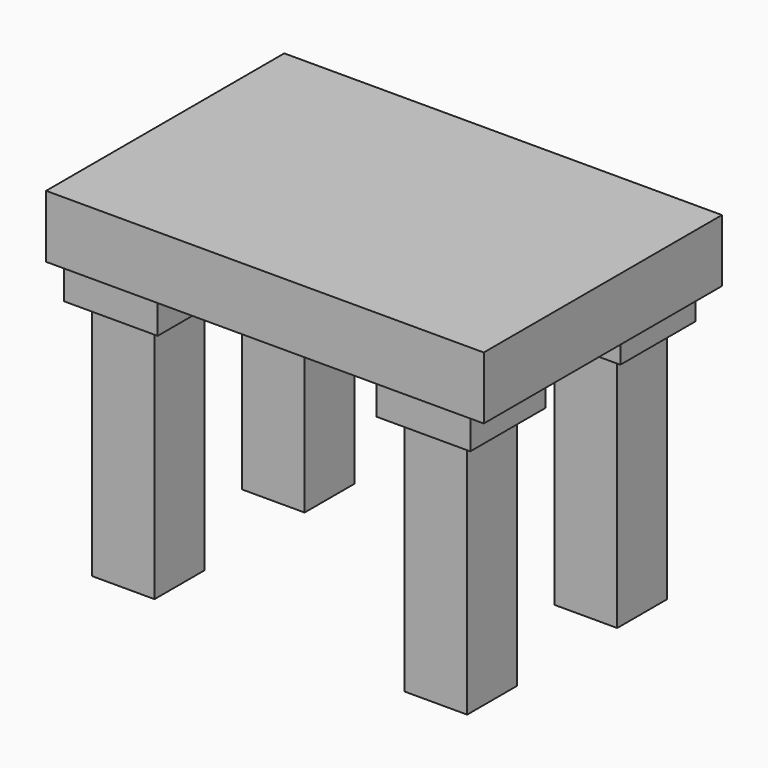
from build123d import *

# Parameters (mm, degrees)
F0_W     = 12.7
F0_H     = 12.7
F1_DEPTH = 111.506
F2_W     = 177.8
F2_H     = 120.9314045732
F3_DEPTH = 25.4
F4_DEPTH = 12.7


with BuildPart() as f1:
    # F0 (on Top) → F1 (new body)
    with BuildSketch(Plane.XY):
        Polygon((76.6849960148, 50.960245767), (76.6849960148, 38.260245767), (89.3849960148, 38.260245767), (89.3849960148, 25.560245767), (102.0849960148, 25.560245767), (102.0849960148, 50.960245767), align=None)
        with Locations((83.0349960148, 31.910245767)):
            Rectangle(F0_W, F0_H)
    extrude(amount=-F1_DEPTH)


with BuildPart() as f1b:
    # F0 (on Top) → F1, piece 2 (new body)
    with BuildSketch(Plane.XY):
        Polygon((-37.6150039852, -37.939754233), (-37.6150039852, -25.239754233), (-50.3150039852, -25.239754233), (-50.3150039852, -50.639754233), (-24.9150039852, -50.639754233), (-24.9150039852, -37.939754233), align=None)
        with Locations((-31.2650039852, -31.589754233)):
            Rectangle(F0_W, F0_H)
    extrude(amount=-F1_DEPTH)


with BuildPart() as f1c:
    # F0 (on Top) → F1, piece 3 (new body)
    with BuildSketch(Plane.XY):
        Polygon((102.0849960148, -25.239754233), (89.3849960148, -25.239754233), (89.3849960148, -37.939754233), (76.6849960148, -37.939754233), (76.6849960148, -50.639754233), (102.0849960148, -50.639754233), align=None)
        with Locations((83.0349960148, -31.589754233)):
            Rectangle(F0_W, F0_H)
    extrude(amount=-F1_DEPTH)


with BuildPart() as f1d:
    # F0 (on Top) → F1, piece 4 (new body)
    with BuildSketch(Plane.XY):
        with Locations((-31.2650039852, 31.910245767)):
            Rectangle(F0_W, F0_H)
        Polygon((-24.9150039852, 38.260245767), (-24.9150039852, 50.960245767), (-50.3150039852, 50.960245767), (-50.3150039852, 25.560245767), (-37.6150039852, 25.560245767), (-37.6150039852, 38.260245767), align=None)
    extrude(amount=-F1_DEPTH)


with BuildPart() as f3:
    # F2 (on Top) → F3 (new body)
    with BuildSketch(Plane.XY):
        with Locations((26.1539444327, 2.0456369966)):
            Rectangle(F2_W, F2_H)
    extrude(amount=F3_DEPTH)


with BuildPart() as f4:
    # F0 (on Top) → F4 (new body)
    with BuildSketch(Plane.XY):
        Polygon((-37.6150039852, -25.239754233), (-37.6150039852, -18.889754233), (-56.6650039852, -18.889754233), (-56.6650039852, -56.989754233), (-18.5650039852, -56.989754233), (-18.5650039852, -37.939754233), (-24.9150039852, -37.939754233), (-24.9150039852, -50.639754233), (-50.3150039852, -50.639754233), (-50.3150039852, -25.239754233), align=None)
        Polygon((-18.5650039852, -18.889754233), (-37.6150039852, -18.889754233), (-37.6150039852, -25.239754233), (-24.9150039852, -25.239754233), (-24.9150039852, -37.939754233), (-18.5650039852, -37.939754233), align=None)
    extrude(amount=-F4_DEPTH)


with BuildPart() as f4b:
    # F0 (on Top) → F4, piece 2 (new body)
    with BuildSketch(Plane.XY):
        Polygon((108.4349960148, -18.889754233), (89.3849960148, -18.889754233), (89.3849960148, -25.239754233), (102.0849960148, -25.239754233), (102.0849960148, -50.639754233), (76.6849960148, -50.639754233), (76.6849960148, -37.939754233), (70.3349960148, -37.939754233), (70.3349960148, -56.989754233), (108.4349960148, -56.989754233), align=None)
        Polygon((89.3849960148, -25.239754233), (89.3849960148, -18.889754233), (70.3349960148, -18.889754233), (70.3349960148, -37.939754233), (76.6849960148, -37.939754233), (76.6849960148, -25.239754233), align=None)
    extrude(amount=-F4_DEPTH)


with BuildPart() as f4c:
    # F0 (on Top) → F4, piece 3 (new body)
    with BuildSketch(Plane.XY):
        Polygon((76.6849960148, 38.260245767), (70.3349960148, 38.260245767), (70.3349960148, 19.210245767), (89.3849960148, 19.210245767), (89.3849960148, 25.560245767), (76.6849960148, 25.560245767), align=None)
        Polygon((70.3349960148, 57.310245767), (70.3349960148, 38.260245767), (76.6849960148, 38.260245767), (76.6849960148, 50.960245767), (102.0849960148, 50.960245767), (102.0849960148, 25.560245767), (89.3849960148, 25.560245767), (89.3849960148, 19.210245767), (108.4349960148, 19.210245767), (108.4349960148, 57.310245767), align=None)
    extrude(amount=-F4_DEPTH)


with BuildPart() as f4d:
    # F0 (on Top) → F4, piece 4 (new body)
    with BuildSketch(Plane.XY):
        Polygon((-18.5650039852, 38.260245767), (-24.9150039852, 38.260245767), (-24.9150039852, 25.560245767), (-37.6150039852, 25.560245767), (-37.6150039852, 19.210245767), (-18.5650039852, 19.210245767), align=None)
        Polygon((-50.3150039852, 50.960245767), (-24.9150039852, 50.960245767), (-24.9150039852, 38.260245767), (-18.5650039852, 38.260245767), (-18.5650039852, 57.310245767), (-56.6650039852, 57.310245767), (-56.6650039852, 19.210245767), (-37.6150039852, 19.210245767), (-37.6150039852, 25.560245767), (-50.3150039852, 25.560245767), align=None)
    extrude(amount=-F4_DEPTH)


solid = Compound([f1.part, f1b.part, f1c.part, f1d.part, f3.part, f4.part, f4b.part, f4c.part, f4d.part])
